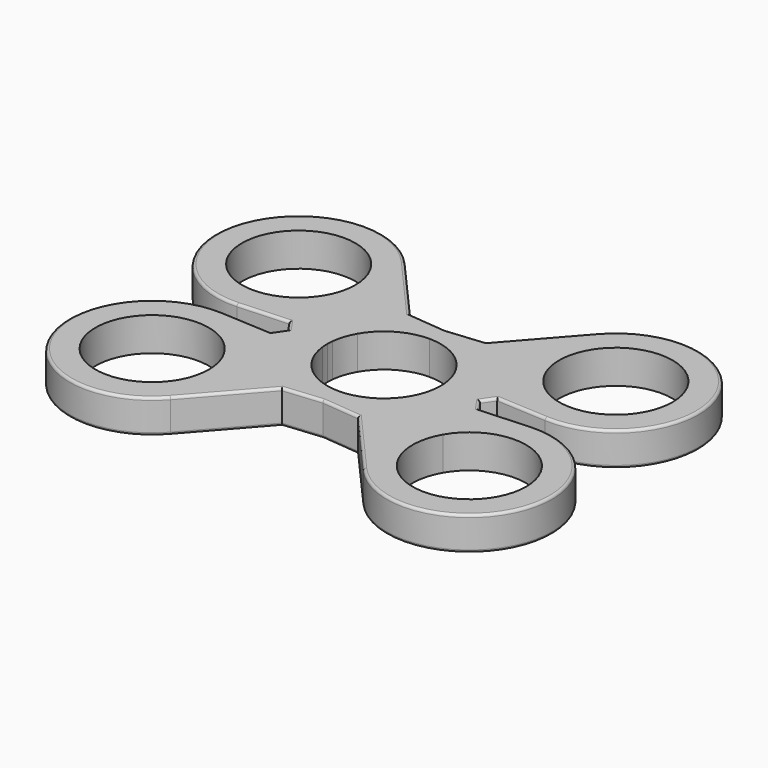
from build123d import *

# Parameters (mm, degrees)
F1_DEPTH = 6.5278
F2_R     = 0.508


with BuildPart() as f1:
    # F0 (on Top) → F1 (new body)
    with BuildSketch(Plane.XY):
        with BuildLine():
            ThreePointArc((9.5357191185, 5.50545), (10.4618272783, 3.4336698746), (10.9435448474, 1.2160365878))
            Line((10.9435448474, 1.2160365878), (20.1956998337, 2.2441274976))
            Line((20.1956998337, 2.2441274976), (29.9182353422, 1.7130515693))
            ThreePointArc((29.9182353422, 1.7130515693), (45.6348668249, 24.0026231555), (18.7208303248, 28.4153486094))
            Line((18.7208303248, 28.4153486094), (7.3887698491, 15.5492913122))
            Line((7.3887698491, 15.5492913122), (0, 14.8451375442))
            Line((0, 14.8451375442), (0, 11.0109))
            ThreePointArc((0, 11.0109), (5.50545, 9.5357191185), (9.5357191185, 5.50545))
        make_face()
        with BuildLine():
            ThreePointArc((41.8067633586, 17.78), (33.6456939823, 7.1442873193), (21.26014424, 12.27455))
            ThreePointArc((21.26014424, 12.27455), (27.9460327349, 28.4157126807), (41.8067633586, 17.78))
        make_face(mode=Mode.SUBTRACT)
        with BuildLine():
            ThreePointArc((-10.9435448474, 1.2160365878), (-10.4618272783, 3.4336698747), (-9.5357191185, 5.50545))
            ThreePointArc((-9.5357191185, 5.50545), (-5.50545, 9.5357191185), (0, 11.0109))
            Line((0, 11.0109), (0, 14.8451375442))
            Line((0, 14.8451375442), (-7.3887698491, 15.5492913122))
            Line((-7.3887698491, 15.5492913122), (-18.7208303248, 28.4153486094))
            ThreePointArc((-18.7208303248, 28.4153486094), (-45.6348668249, 24.0026231555), (-29.9182353422, 1.7130515693))
            Line((-29.9182353422, 1.7130515693), (-20.1956998337, 2.2441274976))
            Line((-20.1956998337, 2.2441274976), (-10.9435448474, 1.2160365878))
        make_face()
        with BuildLine():
            ThreePointArc((-19.7849633586, 17.78), (-20.1601506779, 14.9301693763), (-21.26014424, 12.27455))
            ThreePointArc((-21.26014424, 12.27455), (-41.4315760393, 20.6298306237), (-19.7849633586, 17.78))
        make_face(mode=Mode.SUBTRACT)
        with BuildLine():
            ThreePointArc((0, -11.0109), (-5.50545, -9.5357191185), (-9.5357191185, -5.50545))
            ThreePointArc((-9.5357191185, -5.50545), (-10.4618272783, -3.4336698747), (-10.9435448474, -1.2160365878))
            Line((-10.9435448474, -1.2160365878), (-20.1956998337, -2.2441274976))
            Line((-20.1956998337, -2.2441274976), (-29.9182353422, -1.7130515693))
            ThreePointArc((-29.9182353422, -1.7130515693), (-45.6348668249, -24.0026231555), (-18.7208303248, -28.4153486094))
            Line((-18.7208303248, -28.4153486094), (-7.3887698491, -15.5492913122))
            Line((-7.3887698491, -15.5492913122), (0, -14.8451375442))
            Line((0, -14.8451375442), (0, -11.0109))
        make_face()
        with BuildLine():
            ThreePointArc((-19.7849633586, -17.78), (-41.4315760393, -20.6298306237), (-21.26014424, -12.27455))
            ThreePointArc((-21.26014424, -12.27455), (-20.1601506779, -14.9301693763), (-19.7849633586, -17.78))
        make_face(mode=Mode.SUBTRACT)
        with BuildLine():
            Line((20.1956998337, -2.2441274976), (10.9435448474, -1.2160365878))
            ThreePointArc((10.9435448474, -1.2160365878), (10.4618272783, -3.4336698746), (9.5357191185, -5.50545))
            ThreePointArc((9.5357191185, -5.50545), (5.50545, -9.5357191185), (0, -11.0109))
            Line((0, -11.0109), (0, -14.8451375442))
            Line((0, -14.8451375442), (7.3887698491, -15.5492913122))
            Line((7.3887698491, -15.5492913122), (18.7208303248, -28.4153486094))
            ThreePointArc((18.7208303248, -28.4153486094), (45.6348668249, -24.0026231555), (29.9182353422, -1.7130515693))
            Line((29.9182353422, -1.7130515693), (20.1956998337, -2.2441274976))
        make_face()
        with BuildLine():
            ThreePointArc((41.8067633586, -17.78), (27.9460327349, -28.4157126807), (21.26014424, -12.27455))
            ThreePointArc((21.26014424, -12.27455), (33.6456939823, -7.1442873193), (41.8067633586, -17.78))
        make_face(mode=Mode.SUBTRACT)
        with BuildLine():
            Line((-18.6645261941, 0), (-11.0109, 0))
            ThreePointArc((-11.0109, 0), (-10.9940483165, 0.6089502647), (-10.9435448474, 1.2160365878))
            Line((-10.9435448474, 1.2160365878), (-20.1956998337, 2.2441274976))
            Line((-20.1956998337, 2.2441274976), (-18.6645261941, 0))
        make_face()
        with BuildLine():
            ThreePointArc((-10.9435448474, -1.2160365878), (-10.9940483165, -0.6089502647), (-11.0109, 0))
            Line((-11.0109, 0), (-18.6645261941, 0))
            Line((-18.6645261941, 0), (-20.1956998337, -2.2441274976))
            Line((-20.1956998337, -2.2441274976), (-10.9435448474, -1.2160365878))
        make_face()
        with BuildLine():
            ThreePointArc((10.9435448474, 1.2160365878), (10.9940483165, 0.6089502647), (11.0109, 0))
            Line((11.0109, 0), (18.6645261941, 0))
            Line((18.6645261941, 0), (20.1956998337, 2.2441274976))
            Line((20.1956998337, 2.2441274976), (10.9435448474, 1.2160365878))
        make_face()
        with BuildLine():
            Line((18.6645261941, 0), (11.0109, 0))
            ThreePointArc((11.0109, 0), (10.9940483165, -0.6089502647), (10.9435448474, -1.2160365878))
            Line((10.9435448474, -1.2160365878), (20.1956998337, -2.2441274976))
            Line((20.1956998337, -2.2441274976), (18.6645261941, 0))
        make_face()
    extrude(amount=F1_DEPTH)

    # F2
    f2_edges = [f1.edges().sort_by_distance(p)[0] for p in [
        (-45.634867, 24.002623, 6.5278),
        (-3.694385, 15.197214, 6.5278),
        (3.694385, 15.197214, 6.5278),
        (45.634867, 24.002623, 6.5278),
        (19.430113, 1.122064, 6.5278),
        (19.430113, -1.122064, 6.5278),
        (45.634867, -24.002623, 6.5278),
        (3.694385, -15.197214, 6.5278),
        (-3.694385, -15.197214, 6.5278),
        (-45.634867, -24.002623, 6.5278),
        (-19.430113, -1.122064, 6.5278),
        (-19.430113, 1.122064, 6.5278),
        (45.634867, 24.002623, 0),
        (3.694385, 15.197214, 0),
        (-3.694385, 15.197214, 0),
        (-45.634867, 24.002623, 0),
        (-19.430113, 1.122064, 0),
        (-19.430113, -1.122064, 0),
        (-45.634867, -24.002623, 0),
        (-3.694385, -15.197214, 0),
        (3.694385, -15.197214, 0),
        (45.634867, -24.002623, 0),
        (19.430113, -1.122064, 0),
        (19.430113, 1.122064, 0),
        (-13.0548, 21.98232, 6.5278),
        (13.0548, 21.98232, 6.5278),
        (25.056968, 1.97859, 6.5278),
        (25.056968, -1.97859, 6.5278),
        (13.0548, -21.98232, 6.5278),
        (-13.0548, -21.98232, 6.5278),
        (-25.056968, -1.97859, 6.5278),
        (-25.056968, 1.97859, 6.5278),
        (-13.0548, 21.98232, 0),
        (13.0548, 21.98232, 0),
        (-13.0548, -21.98232, 0),
        (13.0548, -21.98232, 0),
    ]]
    fillet(f2_edges, radius=F2_R)


solid = f1.part
